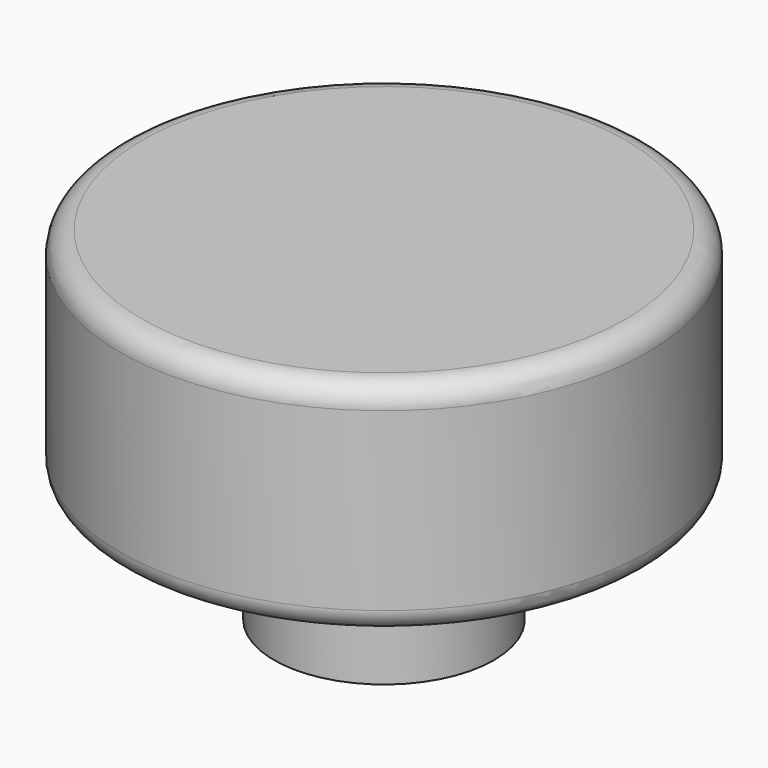
from build123d import *

# Parameters (mm, degrees)
POCKET_DEPTH    = 12
SKETCH001_R     = 3.5
POCKET001_DEPTH = 4.5


with BuildPart() as part:
    # Sketch_knob → Revolution (revolve)
    with BuildSketch(Plane.XZ):
        with BuildLine():
            Line((0, 0), (0, 15.6))
            Line((0, 15.6), (11, 15.6))
            ThreePointArc((12, 14.6), (11.707107, 15.307107), (11, 15.6))
            Line((12, 14.6), (12, 6.6))
            ThreePointArc((11, 5.6), (11.707107, 5.892893), (12, 6.6))
            Line((11, 5.6), (5, 5.6))
            Line((5, 5.6), (5, 0))
            Line((5, 0), (0, 0))
        make_face()
    revolve(axis=Axis((0, 0, 0), (0, 0, 1)))

    # Sketch → Pocket (cut)
    with BuildSketch(Plane.XY):
        with BuildLine():
            ThreePointArc((-2.826659, 1.5), (0, -3.2), (2.826659, 1.5))
            Line((-2.826659, 1.5), (2.826659, 1.5))
        make_face()
    extrude(amount=POCKET_DEPTH, mode=Mode.SUBTRACT)

    # Sketch001 → Pocket001 (cut)
    with BuildSketch(Plane.XY):
        Circle(SKETCH001_R)
    extrude(amount=POCKET001_DEPTH, mode=Mode.SUBTRACT)


solid = part.part
